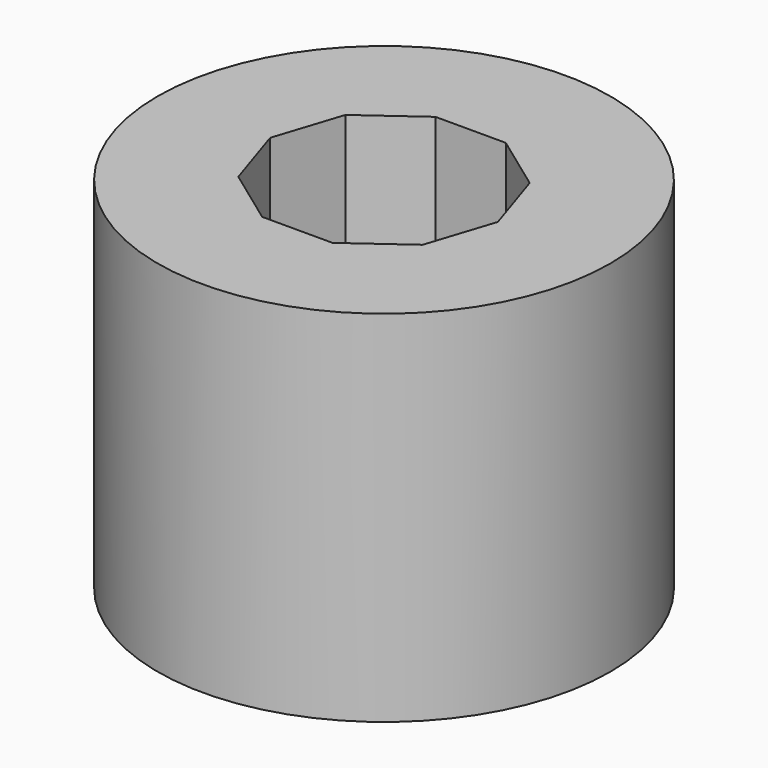
from build123d import *

# Parameters (mm, degrees)
F0_R     = 55.837677
F1_DEPTH = 88.646
F3_DEPTH = 88.647


with BuildPart() as f1:
    # F0 (on Top) → F1 (new body)
    with BuildSketch(Plane.XY):
        Circle(F0_R)
    extrude(amount=F1_DEPTH)

    # F2 (on Top) → F3 (cut, through all)
    with BuildSketch(Plane.XY):
        Polygon((8.678742, 26.710423), (-8.678742, 26.710423), (-22.721243, 16.507949), (-28.085, 0), (-22.721243, -16.507949), (-8.678742, -26.710423), (8.678742, -26.710423), (22.721243, -16.507949), (28.085, 0), (22.721243, 16.507949), align=None)
    extrude(amount=F3_DEPTH, mode=Mode.SUBTRACT)


solid = f1.part
